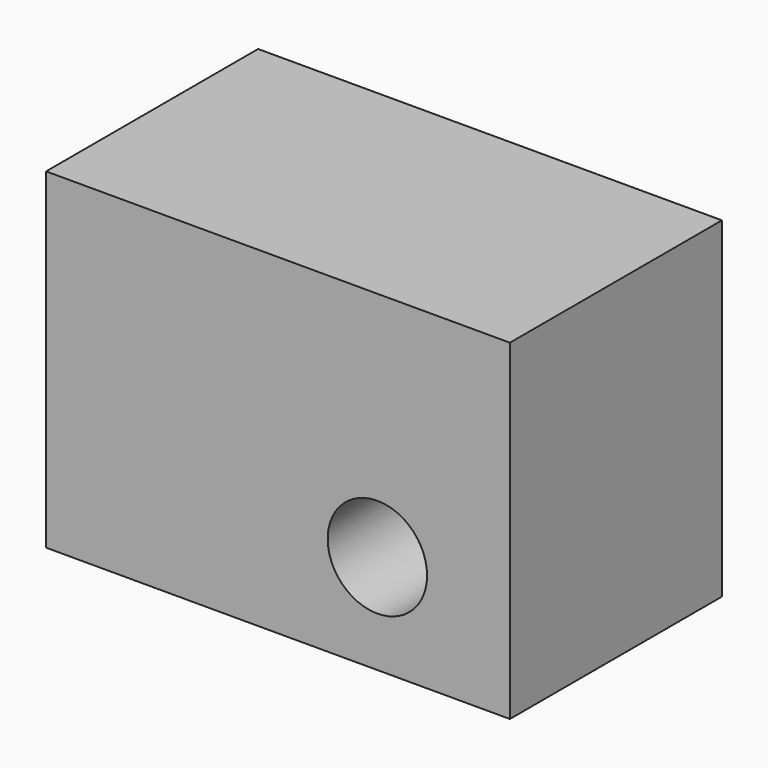
from build123d import *

# Parameters (mm, degrees)
F0_W     = 70
F0_H     = 50
F1_DEPTH = 20
F2_R     = 7.5
F3_DEPTH = 40


with BuildPart() as f1:
    # F0 (on Front) → F1 (new body, symmetric)
    with BuildSketch(Plane.XZ):
        with Locations((-15, 10)):
            Rectangle(F0_W, F0_H)
    extrude(amount=F1_DEPTH, both=True)

    # F2 (on face) → F3 (cut, through all)
    with BuildSketch(Plane.XZ.offset(20)):
        Circle(F2_R)
    extrude(amount=-F3_DEPTH, mode=Mode.SUBTRACT)


solid = f1.part
